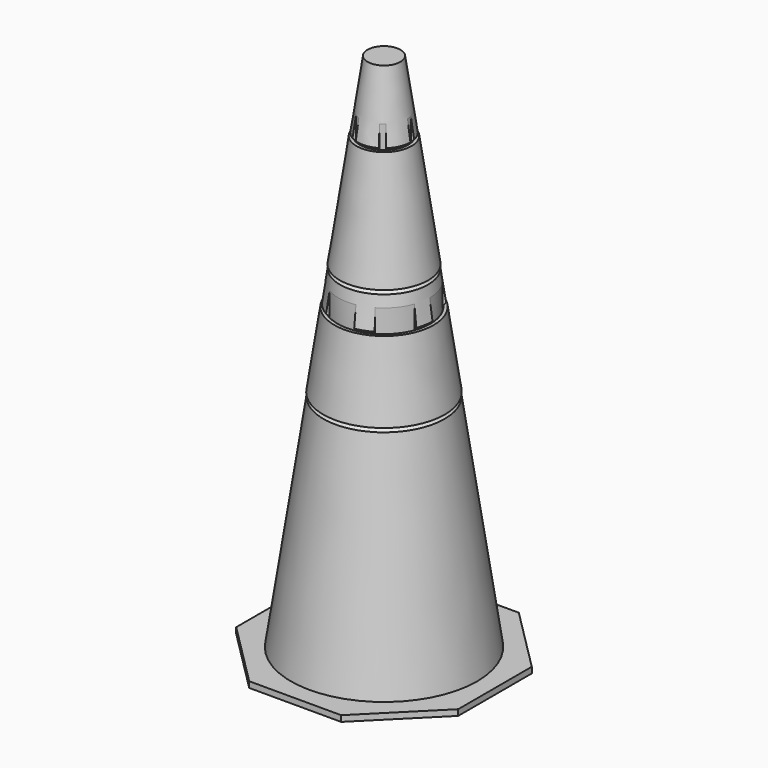
from build123d import *

# Parameters (mm, degrees)
GROOVE002_ANGLE       = 12
POLARPATTERN_COUNT    = 6
GROOVE003_ANGLE       = 40
POLARPATTERN001_COUNT = 6
PAD001_DEPTH          = 0.8


with BuildPart() as cone:
    # Sketch → Revolution003 (revolve)
    with BuildSketch(Plane.XZ):
        Polygon((12.7, 0), (0, 0), (0, 71.12), (2.2225, 71.12), align=None)
    revolve(axis=Axis((0, 0, 0), (0, 0, 1)))

    # Sketch004 → Groove (revolve, cut)
    with BuildSketch(Plane.XZ):
        Polygon((5.9486638697, 45.8272513089), (5.4209151786, 46.355), (3.1757366071, 61.595), (3.567954506, 61.9872178988), align=None)
    revolve(axis=Axis((0, 0, 0), (0, 0, 1)), mode=Mode.SUBTRACT)

    # Sketch007 → Groove001 (revolve, cut)
    with BuildSketch(Plane.XZ):
        Polygon((6.5615259346, 41.6672178988), (6.1693080357, 41.275), (7.66609375, 31.115), (8.1938424411, 30.5872513089), align=None)
    revolve(axis=Axis((0, 0, 0), (0, 0, 1)), mode=Mode.SUBTRACT)

    # Sketch008 → Groove002 (revolve, cut)
    with BuildSketch(Plane.XZ):
        Polygon((3.1757366071, 61.595), (3.567954506, 61.9872178988), (3.1757366071, 64.6495454545), align=None)
    groove002 = revolve(axis=Axis((0, 0, 0), (0, 0, 1)), revolution_arc=GROOVE002_ANGLE, mode=Mode.SUBTRACT)

    # PolarPattern: Groove002 ×6 about axis
    polarpattern_axis = Axis((0, 0, 0), (0, 0, 1))
    for i in range(1, POLARPATTERN_COUNT):
        add(groove002.rotate(polarpattern_axis, i * 360 / POLARPATTERN_COUNT), mode=Mode.SUBTRACT)

    # Sketch009 → Groove003 (revolve, cut)
    with BuildSketch(Plane.XZ):
        Polygon((6.1693080357, 41.275), (6.5615259346, 41.6672178988), (6.1693080357, 44.3295454545), align=None)
    groove003 = revolve(axis=Axis((0, 0, 0), (0, 0, 1)), revolution_arc=GROOVE003_ANGLE, mode=Mode.SUBTRACT)

    # PolarPattern001: Groove003 ×6 about axis
    polarpattern001_axis = Axis((0, 0, 0), (0, 0, 1))
    for i in range(1, POLARPATTERN001_COUNT):
        add(groove003.rotate(polarpattern001_axis, i * 360 / POLARPATTERN001_COUNT), mode=Mode.SUBTRACT)

    # Sketch011 → Pad001 (new body)
    with BuildSketch(Plane.XY):
        Polygon((-6.2132034356, 15), (6.2132034356, 15), (15, 6.2132034356), (15, -6.2132034356), (6.2132034356, -15), (-6.2132034356, -15), (-15, -6.2132034356), (-15, 6.2132034356), align=None)
    extrude(amount=PAD001_DEPTH)

    # Sketch012 → Groove004 (revolve, cut)
    with BuildSketch(Plane.XZ):
        Polygon((12.25, 0), (11.9553571429, 2), (0, 2), (0, 0), align=None)
    revolve(axis=Axis((0, 0, 0), (0, 0, 1)), mode=Mode.SUBTRACT)


with BuildPart() as topband:
    # Sketch010 → Revolution (revolve)
    with BuildSketch(Plane.XZ):
        Polygon((3.2757366071, 61.595), (5.5209151786, 46.355), (5.9709151786, 46.355), (3.7257366071, 61.595), align=None)
    revolve(axis=Axis((0, 0, 0), (0, 0, 1)))


with BuildPart() as bottomband:
    # Sketch002 → Revolution002 (revolve)
    with BuildSketch(Plane.XZ):
        Polygon((6.2693080357, 41.275), (6.7193080357, 41.275), (8.21609375, 31.115), (7.76609375, 31.115), align=None)
    revolve(axis=Axis((0, 0, 0), (0, 0, 1)))


solid = Compound([cone.part, topband.part, bottomband.part])
